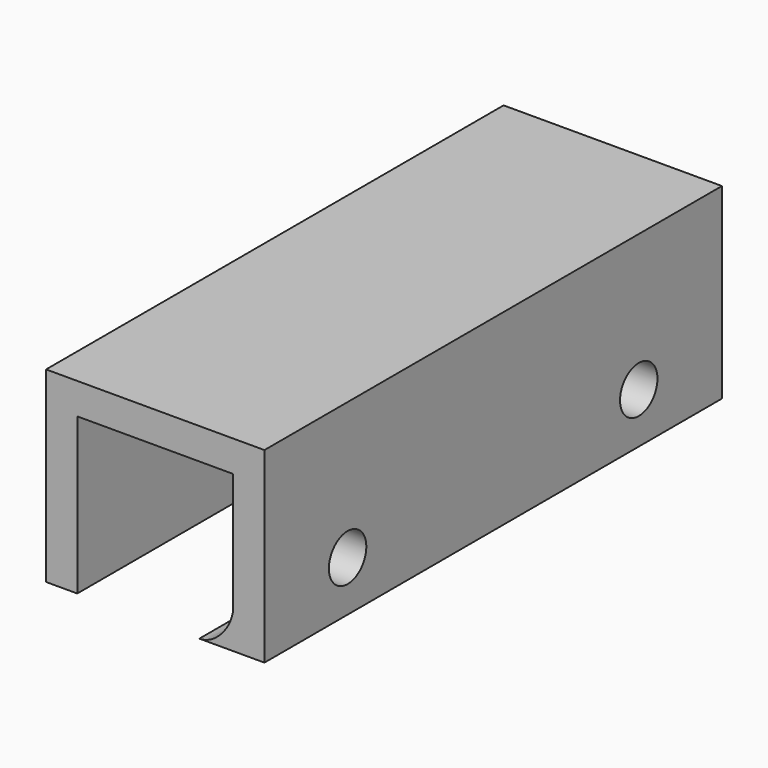
from build123d import *

# Parameters (mm, degrees)
F1_DEPTH = 27.5
F2_R     = 2.25
F3_DEPTH = 5


with BuildPart() as f1:
    # F0 (on Front) → F1 (new body, symmetric)
    with BuildSketch(Plane.XZ):
        with BuildLine():
            Line((-8.750001, 0), (-5.750001, 0))
            Line((-5.750001, 0), (-5.750001, 15))
            Line((-5.750001, 15), (9.249999, 15))
            Line((9.249999, 15), (9.249999, 3.743645))
            add(Edge.make_bspline(
                [(5.992616, 0), (7.621308, 0), (9.249999, 2.041017), (9.249999, 3.743645)],
                knots=[0, 0, 0, 0, 4.962402, 4.962402, 4.962402, 4.962402], degree=3))
            Line((5.992616, 0), (9.249999, 0))
            Line((9.249999, 0), (12.249999, 0))
            Line((12.249999, 0), (12.249999, 18))
            Line((12.249999, 18), (-8.750001, 18))
            Line((-8.750001, 18), (-8.750001, 0))
        make_face()
    extrude(amount=F1_DEPTH, both=True)

    # F2 (on face) → F3 (cut)
    with BuildSketch(Plane.YZ.offset(12.249999)):
        with Locations((-17.5, 4.833851)):
            Circle(F2_R)
        with Locations((17.5, 4.833851)):
            Circle(F2_R)
    extrude(amount=-F3_DEPTH, mode=Mode.SUBTRACT)


solid = f1.part
